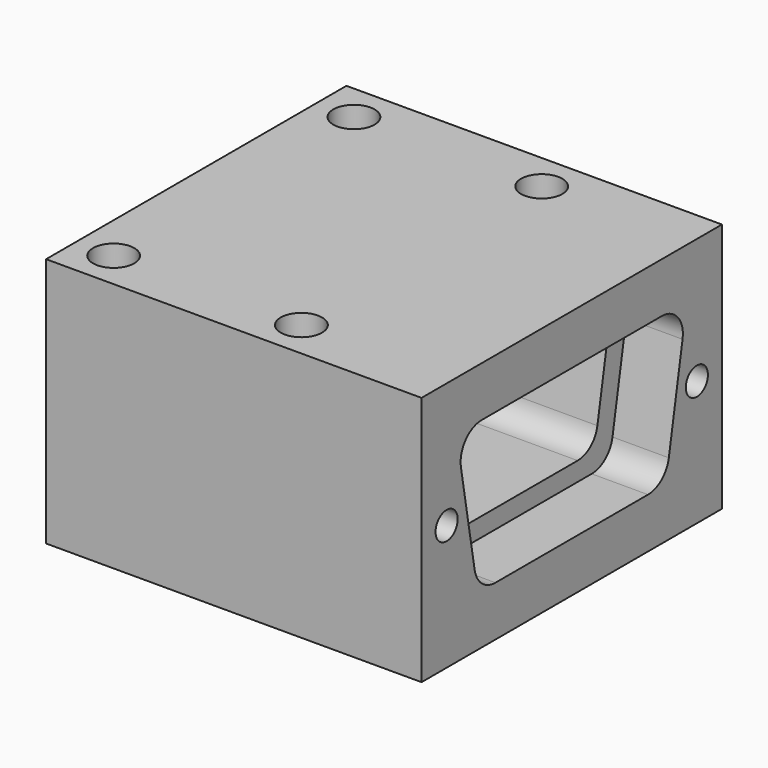
from build123d import *

# Parameters (mm, degrees)
SKETCH001_W     = 30
SKETCH001_H     = 30
PAD_DEPTH       = 20
POCKET_DEPTH    = 4.5
POCKET001_DEPTH = 20
SKETCH004_R     = 3
HOLE001_DEPTH   = 30.001
SKETCH005_R     = 1.1049
HOLE002_DEPTH   = 9.336109
HOLE002_TIPS_R  = 1.1049
SKETCH_R        = 1.65
HOLE_DEPTH      = 20.001


with BuildPart() as part:
    # Sketch001 → Pad (new body)
    with BuildSketch(Plane.XY):
        with Locations((4.5, 0)):
            Rectangle(SKETCH001_W, SKETCH001_H)
    extrude(amount=PAD_DEPTH)

    # Sketch002 (on DatumPlane) → Pocket (cut)
    with BuildSketch(Plane(origin=(19.5, 0, 10), x_dir=(0, 1, 0), z_dir=(1, 0, 0))):
        with BuildLine():
            Line((-8.99, 6), (8.99, 6))
            ThreePointArc((11.067944, 3.523602), (10.606354, 5.246282), (8.99, 6))
            Line((11.067944, 3.523602), (9.69612, -4.256398))
            ThreePointArc((7.618176, -6), (8.974458, -5.506354), (9.69612, -4.256398))
            Line((-7.618176, -6), (7.618176, -6))
            ThreePointArc((-9.69612, -4.256398), (-8.974458, -5.506354), (-7.618176, -6))
            Line((-11.067944, 3.523602), (-9.69612, -4.256398))
            ThreePointArc((-8.99, 6), (-10.606354, 5.246282), (-11.067944, 3.523602))
        make_face()
    extrude(amount=-POCKET_DEPTH, mode=Mode.SUBTRACT)

    # Sketch003 (on DatumPlane) → Pocket001 (cut)
    with BuildSketch(Plane(origin=(19.5, 0, 10), x_dir=(0, 1, 0), z_dir=(1, 0, 0))):
        with BuildLine():
            Line((-7.1, 4.5), (7.1, 4.5))
            ThreePointArc((9.069616, 2.152704), (8.632089, 3.785575), (7.1, 4.5))
            Line((9.069616, 2.152704), (8.187981, -2.847296))
            ThreePointArc((6.218365, -4.5), (7.50394, -4.032089), (8.187981, -2.847296))
            Line((-6.218365, -4.5), (6.218365, -4.5))
            ThreePointArc((-8.187981, -2.847296), (-7.50394, -4.032089), (-6.218365, -4.5))
            Line((-9.069616, 2.152704), (-8.187981, -2.847296))
            ThreePointArc((-7.1, 4.5), (-8.632089, 3.785575), (-9.069616, 2.152704))
        make_face()
    extrude(amount=-POCKET001_DEPTH, mode=Mode.SUBTRACT)

    # Sketch004 (on DatumPlane) → Hole001 (cut, through all)
    with BuildSketch(Plane(origin=(19.5, 0, 10), x_dir=(0, 1, 0), z_dir=(1, 0, 0))):
        Circle(SKETCH004_R)
    extrude(amount=-HOLE001_DEPTH, mode=Mode.SUBTRACT)

    # Sketch005 (on DatumPlane) → Hole002 (cut)
    with BuildSketch(Plane(origin=(19.5, 0, 10), x_dir=(0, 1, 0), z_dir=(1, 0, 0))):
        with Locations((-12.495, 0)):
            Circle(SKETCH005_R)
        with Locations((12.495, 0)):
            Circle(SKETCH005_R)
    extrude(amount=-HOLE002_DEPTH, mode=Mode.SUBTRACT)

    # Hole002 tips → Hole002 tip 1 section 0
    with BuildSketch(Plane(origin=(10.163891, 0, 10), x_dir=(0, 1, 0), z_dir=(1, 0, 0)), mode=Mode.PRIVATE) as hole002_tip_1_s0:
        with Locations((-12.495, 0)):
            Circle(HOLE002_TIPS_R)
    loft([hole002_tip_1_s0.sketch, Vertex(9.5, -12.495, 10)], mode=Mode.SUBTRACT)

    # Hole002 tips → Hole002 tip 2 section 0
    with BuildSketch(Plane(origin=(10.163891, 0, 10), x_dir=(0, 1, 0), z_dir=(1, 0, 0)), mode=Mode.PRIVATE) as hole002_tip_2_s0:
        with Locations((12.495, 0)):
            Circle(HOLE002_TIPS_R)
    loft([hole002_tip_2_s0.sketch, Vertex(9.5, 12.495, 10)], mode=Mode.SUBTRACT)

    # Sketch (on DatumPlane) → Hole (cut, through all)
    with BuildSketch(Plane.XY.offset(20)):
        with Locations((-7.5, 12)):
            Circle(SKETCH_R)
        with Locations((7.5, 12)):
            Circle(SKETCH_R)
        with Locations((7.5, -12)):
            Circle(SKETCH_R)
        with Locations((-7.5, -12)):
            Circle(SKETCH_R)
    extrude(amount=-HOLE_DEPTH, mode=Mode.SUBTRACT)


solid = part.part
